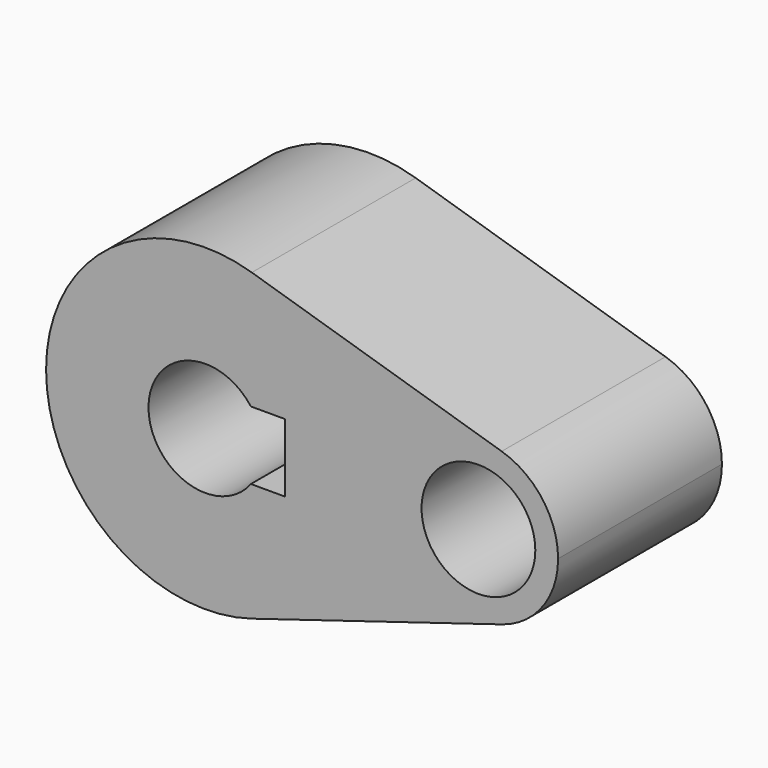
from build123d import *

# Parameters (mm, degrees)
F0_R     = 12.5
F1_DEPTH = 25
F2_DEPTH = 45


with BuildPart() as f1:
    # F0 (on Front) → F1 (new body)
    with BuildSketch(Plane.XZ):
        with BuildLine():
            ThreePointArc((10.208333, -33.478201), (28.127315, -20.829166), (35, 0))
            ThreePointArc((35, 0), (28.127315, 20.829166), (10.208333, 33.478201))
            ThreePointArc((10.208333, 33.478201), (-35, 0), (10.208333, -33.478201))
        make_face()
        with BuildLine():
            ThreePointArc((-10, 7.5), (0, 12.5), (10, 7.5))
            Line((10, 7.5), (17.5, 7.5))
            Line((17.5, 7.5), (17.5, -7.5))
            Line((17.5, -7.5), (10, -7.5))
            ThreePointArc((10, -7.5), (0, -12.5), (-10, -7.5))
            Line((-10, -7.5), (-17.5, -7.5))
            Line((-17.5, -7.5), (-17.5, 7.5))
            Line((-17.5, 7.5), (-10, 7.5))
        make_face(mode=Mode.SUBTRACT)
        with BuildLine():
            ThreePointArc((-10, -7.5), (-12.5, 0), (-10, 7.5))
            Line((-10, 7.5), (-17.5, 7.5))
            Line((-17.5, 7.5), (-17.5, -7.5))
            Line((-17.5, -7.5), (-10, -7.5))
        make_face()
        with BuildLine():
            ThreePointArc((10.208333, 33.478201), (28.127315, 20.829166), (35, 0))
            ThreePointArc((35, 0), (28.127315, -20.829166), (10.208333, -33.478201))
            Line((10.208333, -33.478201), (65.104167, -16.7391))
            ThreePointArc((65.104167, -16.7391), (42.5, 0), (65.104167, 16.7391))
            Line((65.104167, 16.7391), (10.208333, 33.478201))
        make_face()
        with BuildLine():
            ThreePointArc((77.5, 0), (74.063657, 10.414583), (65.104167, 16.7391))
            ThreePointArc((65.104167, 16.7391), (42.5, 0), (65.104167, -16.7391))
            ThreePointArc((65.104167, -16.7391), (74.063657, -10.414583), (77.5, 0))
        make_face()
        with Locations((60, 0)):
            Circle(F0_R, mode=Mode.SUBTRACT)
    extrude(amount=F1_DEPTH)


with BuildPart() as f2:
    # F0 (on Front) → F2 (new body)
    with BuildSketch(Plane.XZ):
        with BuildLine():
            ThreePointArc((10.208333, -33.478201), (28.127315, -20.829166), (35, 0))
            ThreePointArc((35, 0), (28.127315, 20.829166), (10.208333, 33.478201))
            ThreePointArc((10.208333, 33.478201), (-35, 0), (10.208333, -33.478201))
        make_face()
        with BuildLine():
            ThreePointArc((-10, 7.5), (0, 12.5), (10, 7.5))
            Line((10, 7.5), (17.5, 7.5))
            Line((17.5, 7.5), (17.5, -7.5))
            Line((17.5, -7.5), (10, -7.5))
            ThreePointArc((10, -7.5), (0, -12.5), (-10, -7.5))
            Line((-10, -7.5), (-17.5, -7.5))
            Line((-17.5, -7.5), (-17.5, 7.5))
            Line((-17.5, 7.5), (-10, 7.5))
        make_face(mode=Mode.SUBTRACT)
        with BuildLine():
            ThreePointArc((-10, -7.5), (-12.5, 0), (-10, 7.5))
            Line((-10, 7.5), (-17.5, 7.5))
            Line((-17.5, 7.5), (-17.5, -7.5))
            Line((-17.5, -7.5), (-10, -7.5))
        make_face()
        with BuildLine():
            ThreePointArc((10.208333, 33.478201), (28.127315, 20.829166), (35, 0))
            ThreePointArc((35, 0), (28.127315, -20.829166), (10.208333, -33.478201))
            Line((10.208333, -33.478201), (65.104167, -16.7391))
            ThreePointArc((65.104167, -16.7391), (42.5, 0), (65.104167, 16.7391))
            Line((65.104167, 16.7391), (10.208333, 33.478201))
        make_face()
        with BuildLine():
            ThreePointArc((77.5, 0), (74.063657, 10.414583), (65.104167, 16.7391))
            ThreePointArc((65.104167, 16.7391), (42.5, 0), (65.104167, -16.7391))
            ThreePointArc((65.104167, -16.7391), (74.063657, -10.414583), (77.5, 0))
        make_face()
        with Locations((60, 0)):
            Circle(F0_R, mode=Mode.SUBTRACT)
    extrude(amount=F2_DEPTH)


solid = Compound([f1.part, f2.part])
